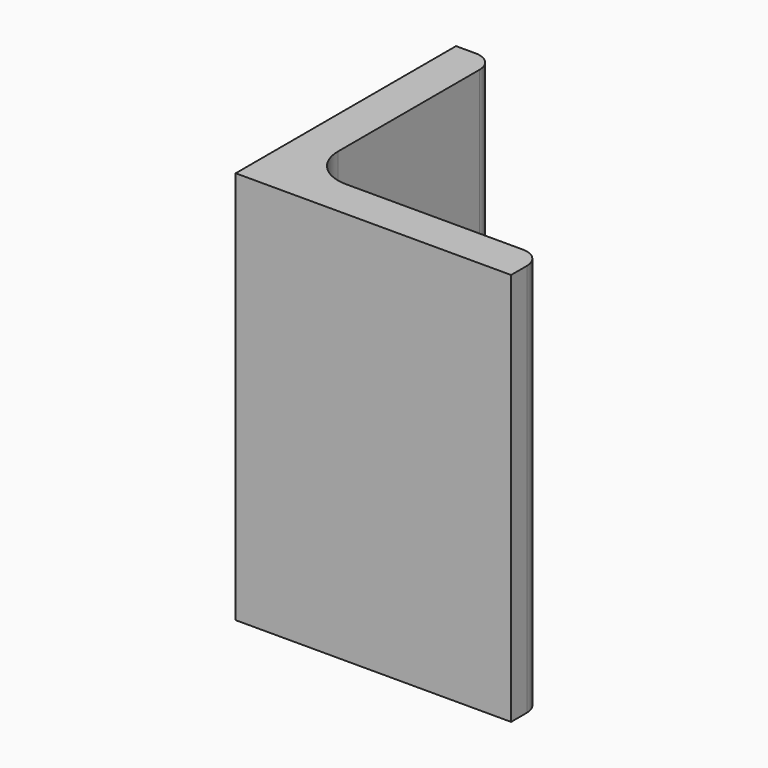
from build123d import *

# Parameters (mm, degrees)
EXTRUDE_DEPTH = 50


with BuildPart() as part:
    # Sketch → Extrude (new body)
    with BuildSketch(Plane.XY):
        with BuildLine():
            Line((0, 0), (35, 0))
            Line((35, 0), (35, 2.5))
            ThreePointArc((35, 2.5), (34.267767, 4.267767), (32.5, 5))
            Line((32.5, 5), (10, 5))
            ThreePointArc((5, 10), (6.464466, 6.464466), (10, 5))
            Line((5, 32.5), (5, 10))
            ThreePointArc((5, 32.5), (4.267767, 34.267767), (2.5, 35))
            Line((0, 35), (2.5, 35))
            Line((0, 0), (0, 35))
        make_face()
    extrude(amount=EXTRUDE_DEPTH)


solid = part.part
